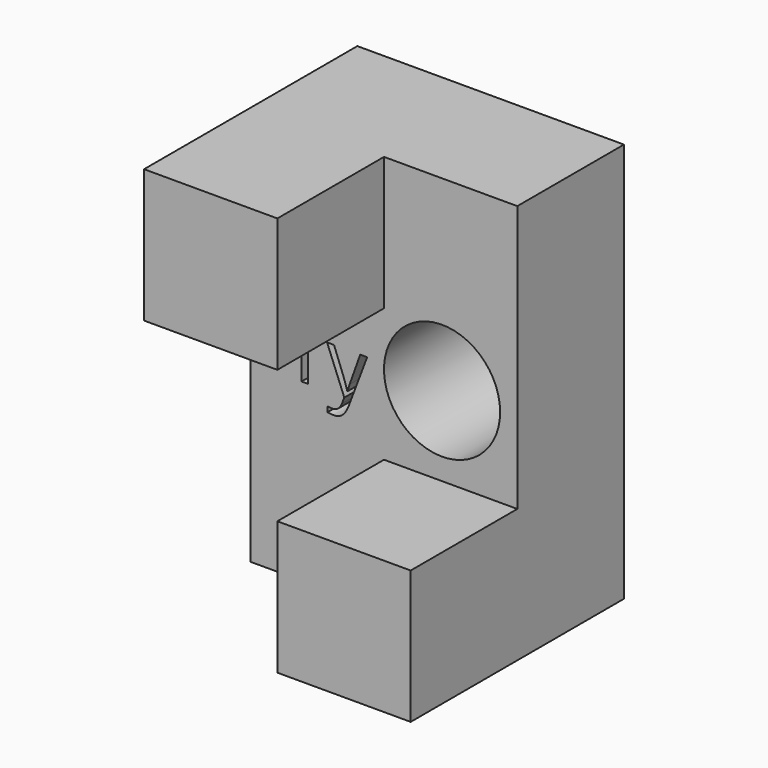
from build123d import *

# Parameters (mm, degrees)
F0_W     = 25.4
F0_H     = 25.4
F1_DEPTH = 50.8
F2_R     = 11.0649221301
F3_DEPTH = 25.4
F4_W     = 25.4
F4_H     = 25.4
F5_DEPTH = 50.8


with BuildPart() as f1:
    # F0 (on Front) → F1 (new body)
    with BuildSketch(Plane.XZ):
        with Locations((38.1, -12.7)):
            Rectangle(F0_W, F0_H)
    extrude(amount=F1_DEPTH)

    # F2 (on Front) → F3 (join)
    with BuildSketch(Plane.XZ):
        Polygon((0, 0), (0, -25.4), (25.4, -25.4), (25.4, 0), (50.8, 0), (50.8, 25.4), (50.8, 50.8), (25.4, 50.8), (25.4, 25.4), (0, 25.4), align=None)
        with BuildLine():
            Line((17.8367029688, 7.9644425954), (14.5494888325, 16.1563134241))
            Line((14.5494888325, 16.1563134241), (15.8743645734, 16.1563134241))
            Line((15.8743645734, 16.1563134241), (17.6583085692, 11.5109232591))
            add(Edge.make_bspline(
                [(17.6583085692, 11.5109232591), (18.2434421998, 9.9196452148), (18.3861577195, 9.2132033925)],
                knots=[0, 0, 0, 1, 1, 1], degree=2))
            Line((18.3861577195, 9.2132033925), (18.4456225193, 9.2132033925))
            add(Edge.make_bspline(
                [(18.4456225193, 9.2132033925), (18.5407661991, 9.5937781116), (18.8499831584, 10.5119146214)],
                knots=[0, 0, 0, 1, 1, 1], degree=2))
            add(Edge.make_bspline(
                [(18.8499831584, 10.5119146214), (19.1592001176, 11.4300511313), (20.8694077616, 16.1563134241)],
                knots=[0, 0, 0, 1, 1, 1], degree=2))
            Line((20.8694077616, 16.1563134241), (22.1919049105, 16.1563134241))
            Line((22.1919049105, 16.1563134241), (18.6906174947, 6.879804646))
            add(Edge.make_bspline(
                [(18.6906174947, 6.879804646), (18.169705848, 5.5049784733), (17.4751569856, 4.9281699146)],
                knots=[0, 0, 0, 1, 1, 1], degree=2))
            add(Edge.make_bspline(
                [(17.4751569856, 4.9281699146), (16.7806081233, 4.351361356), (15.7697065256, 4.351361356)],
                knots=[0, 0, 0, 1, 1, 1], degree=2))
            add(Edge.make_bspline(
                [(15.7697065256, 4.351361356), (15.203601631, 4.351361356), (14.6541468803, 4.4798053237)],
                knots=[0, 0, 0, 1, 1, 1], degree=2))
            Line((14.6541468803, 4.4798053237), (14.6541468803, 5.4669210013))
            add(Edge.make_bspline(
                [(14.6541468803, 5.4669210013), (15.0632647033, 5.3789130976), (15.5675262061, 5.3789130976)],
                knots=[0, 0, 0, 1, 1, 1], degree=2))
            add(Edge.make_bspline(
                [(15.5675262061, 5.3789130976), (16.8400729231, 5.3789130976), (17.3823918978, 6.8060682942)],
                knots=[0, 0, 0, 1, 1, 1], degree=2))
            Line((17.3823918978, 6.8060682942), (17.8367029688, 7.9644425954))
        make_face(mode=Mode.SUBTRACT)
        Polygon((10.950679145, 17.7547272443), (10.950679145, 8.0096358433), (9.687646796, 8.0096358433), (9.687646796, 17.7547272443), (6.2458241801, 17.7547272443), (6.2458241801, 18.8774226657), (14.3925017609, 18.8774226657), (14.3925017609, 17.7547272443), align=None, mode=Mode.SUBTRACT)
        with Locations((36.4649221301, 15.1761500165)):
            Circle(F2_R, mode=Mode.SUBTRACT)
    extrude(amount=F3_DEPTH)

    # F4 (on Front) → F5 (join)
    with BuildSketch(Plane.XZ):
        with Locations((12.7, 38.1)):
            Rectangle(F4_W, F4_H)
    extrude(amount=F5_DEPTH)


solid = f1.part
